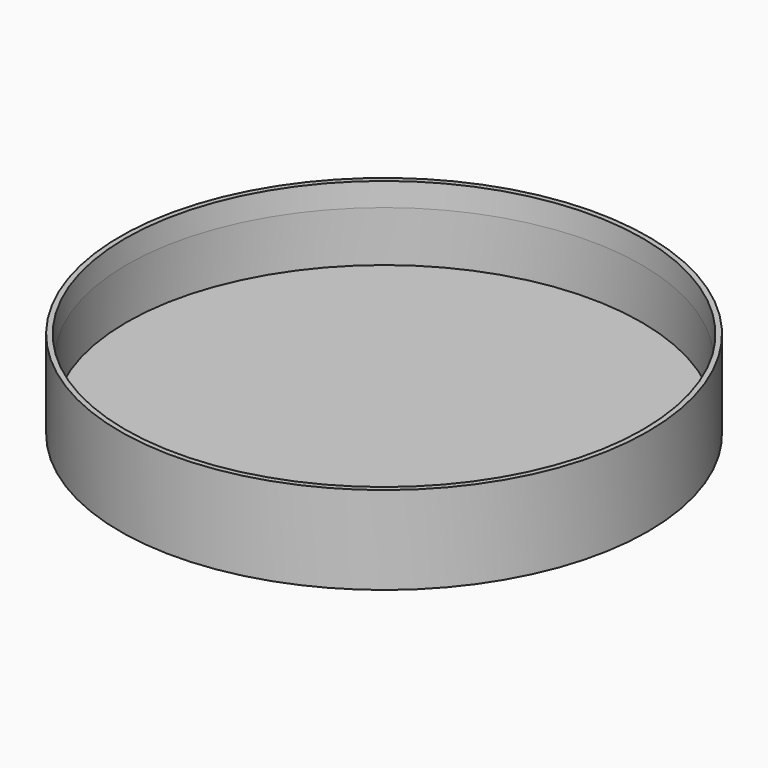
from build123d import *

# Parameters (mm, degrees)
F0_R     = 36
F1_DEPTH = 12


with BuildPart() as f1:
    # F0 (on Top) → F1 (new body)
    with BuildSketch(Plane.XY):
        Circle(F0_R)
        Circle(F0_R)
    extrude(amount=F1_DEPTH)

    # F3 (on Front) → F4 (revolve, cut)
    with BuildSketch(Plane.XZ):
        Polygon((-35.114, 8.9), (-35.114, 2), (0, 2), (0, 12), (-35.3, 12), align=None)
    revolve(axis=Axis((0, 0, 7), (0, 0, 1)), mode=Mode.SUBTRACT)


solid = f1.part
